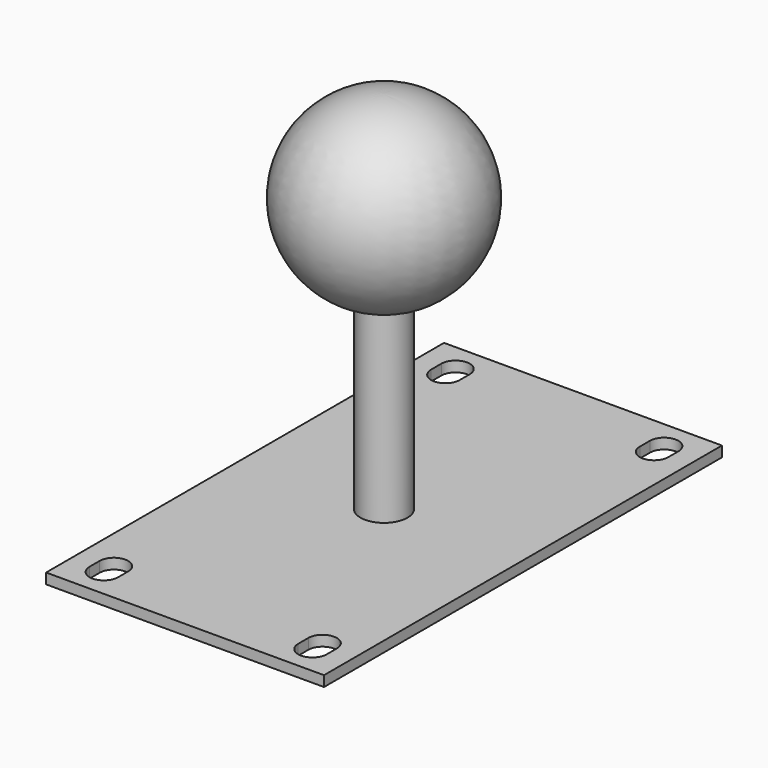
from build123d import *

# Parameters (mm, degrees)
F0_W     = 53.15
F0_H     = 95.12
F1_DEPTH = 2
F2_R     = 4.5
F3_DEPTH = 36.36


with BuildPart() as f1:
    # F0 (on Top) → F1 (new body)
    with BuildSketch(Plane.XY):
        Rectangle(F0_W, F0_H)
        with BuildLine():
            Line((-22.675, -42.035), (-22.675, -39.625))
            ThreePointArc((-22.675, -39.625), (-19.95, -36.9), (-17.225, -39.625))
            Line((-17.225, -39.625), (-17.225, -42.035))
            ThreePointArc((-17.225, -42.035), (-19.95, -44.76), (-22.675, -42.035))
        make_face(mode=Mode.SUBTRACT)
        with BuildLine():
            ThreePointArc((17.225, -39.625), (19.95, -36.9), (22.675, -39.625))
            Line((22.675, -39.625), (22.675, -42.035))
            ThreePointArc((22.675, -42.035), (19.95, -44.76), (17.225, -42.035))
            Line((17.225, -42.035), (17.225, -39.625))
        make_face(mode=Mode.SUBTRACT)
        with BuildLine():
            Line((-17.225, 42.035), (-17.225, 39.625))
            ThreePointArc((-17.225, 39.625), (-19.95, 36.9), (-22.675, 39.625))
            Line((-22.675, 39.625), (-22.675, 42.035))
            ThreePointArc((-22.675, 42.035), (-19.95, 44.76), (-17.225, 42.035))
        make_face(mode=Mode.SUBTRACT)
        with BuildLine():
            ThreePointArc((17.225, 42.035), (19.95, 44.76), (22.675, 42.035))
            Line((22.675, 42.035), (22.675, 39.625))
            ThreePointArc((22.675, 39.625), (19.95, 36.9), (17.225, 39.625))
            Line((17.225, 39.625), (17.225, 42.035))
        make_face(mode=Mode.SUBTRACT)
    extrude(amount=F1_DEPTH)

    # F2 (on face) → F3 (join)
    with BuildSketch(Plane.XY.offset(2)):
        Circle(F2_R)
    extrude(amount=F3_DEPTH)

    # F4 (on Front) → F5 (revolve)
    with BuildSketch(Plane.XZ):
        with BuildLine():
            Line((0, 38.36), (7.088723, 38.36))
            ThreePointArc((7.088723, 38.36), (17.120894, 57.982844), (0, 71.86))
            Line((0, 71.86), (0, 38.36))
        make_face()
    revolve(axis=Axis((0, 0, 55.11), (0, 0, -1)))


solid = f1.part
